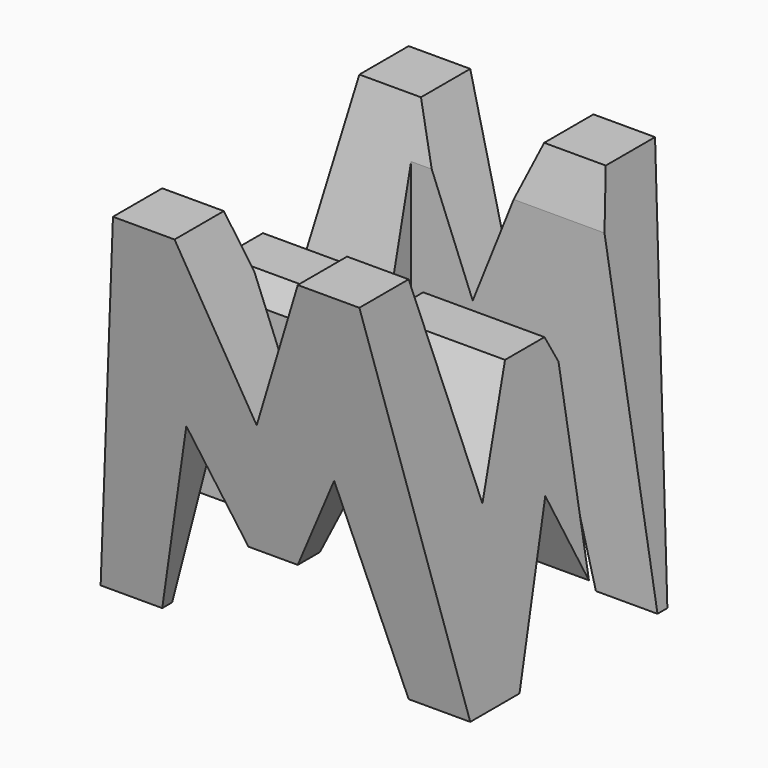
from build123d import *

# Parameters (mm, degrees)
F0_W      = 38.1
F0_H      = 38.1
F1_DEPTH  = 38.1
F6_DEPTH  = 38.1
F8_DEPTH  = 38.1
F9_W      = 25.4
F9_H      = 7.62
F10_DEPTH = 38.1


with BuildPart() as f1:
    # F0 (on Front) → F1 (new body)
    with BuildSketch(Plane.XZ):
        with Locations((19.05, 19.05)):
            Rectangle(F0_W, F0_H)
    extrude(amount=F1_DEPTH)

    # F5 (on offset) → F6 (cut)
    with BuildSketch(Plane.YZ.offset(38.1)):
        Polygon((-6.35, 38.1), (-31.75, 38.1), (-26.67, 16.848067), (-21.59, 27.249678), (-16.51, 27.249678), (-11.43, 16.848067), align=None)
        Polygon((-31.75, 0), (-38.1, 38.1), (-38.1, 0), align=None)
        Polygon((-19.05, 14.549678), (-25.4, 0), (-12.7, 0), align=None)
        Polygon((0, 0), (0, 38.1), (-6.35, 0), align=None)
    extrude(amount=-F6_DEPTH, mode=Mode.SUBTRACT)

    # F7 (on offset) → F8 (cut)
    with BuildSketch(Plane.XZ.offset(38.1)):
        Polygon((25.4, 38.1), (12.7, 38.1), (19.05, 22.225), align=None)
        Polygon((0, 38.1), (0, 0), (6.35, 38.1), align=None)
        Polygon((31.75, 38.1), (38.1, 0), (38.1, 38.1), align=None)
        Polygon((11.43, 19.493997), (6.35, 0), (31.75, 0), (26.67, 19.493997), (21.59, 9.525), (16.51, 9.525), align=None)
    extrude(amount=-F8_DEPTH, mode=Mode.SUBTRACT)

    # F9 (on offset) → F10 (cut)
    with BuildSketch(Plane.XY.offset(38.1)):
        with Locations((25.4, -11.43)):
            Rectangle(F9_W, F9_H)
        with Locations((12.7, -26.67)):
            Rectangle(F9_W, F9_H)
    extrude(amount=-F10_DEPTH, mode=Mode.SUBTRACT)


solid = f1.part
